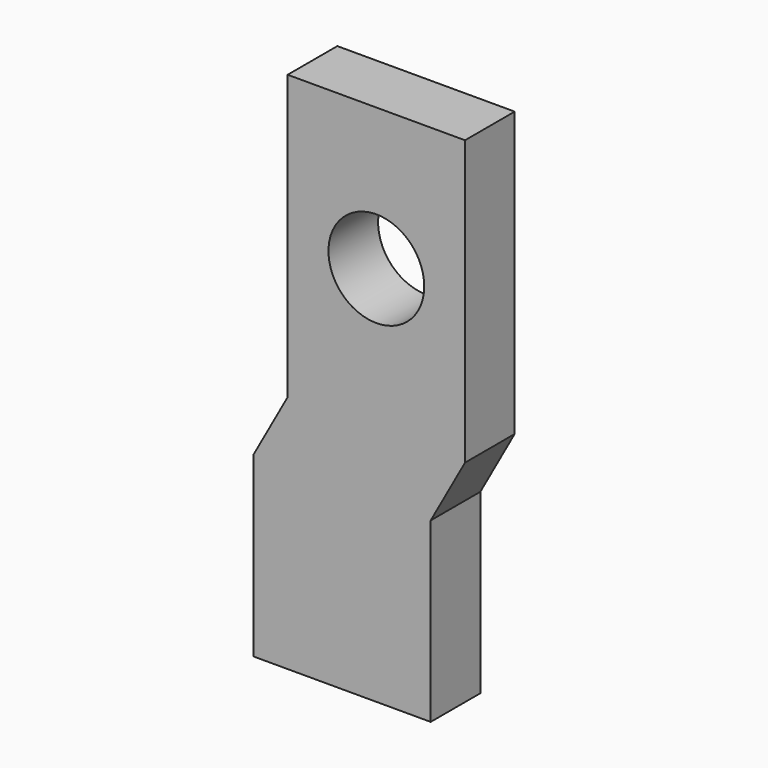
from build123d import *

# Parameters (mm, degrees)
F0_W     = 10
F0_H     = 16
F0_R     = 2.7
F0_H_2   = 10
F1_DEPTH = 3.5


with BuildPart() as f1:
    # F0 (on Front) → F1 (new body)
    with BuildSketch(Plane.XZ):
        Rectangle(F0_W, F0_H)
        Circle(F0_R, mode=Mode.SUBTRACT)
        Polygon((3.063508, -11.5), (5, -8), (-5, -8), (-6.936492, -11.5), align=None)
        with Locations((-1.936492, -16.5)):
            Rectangle(F0_W, F0_H_2)
    extrude(amount=F1_DEPTH)


solid = f1.part
